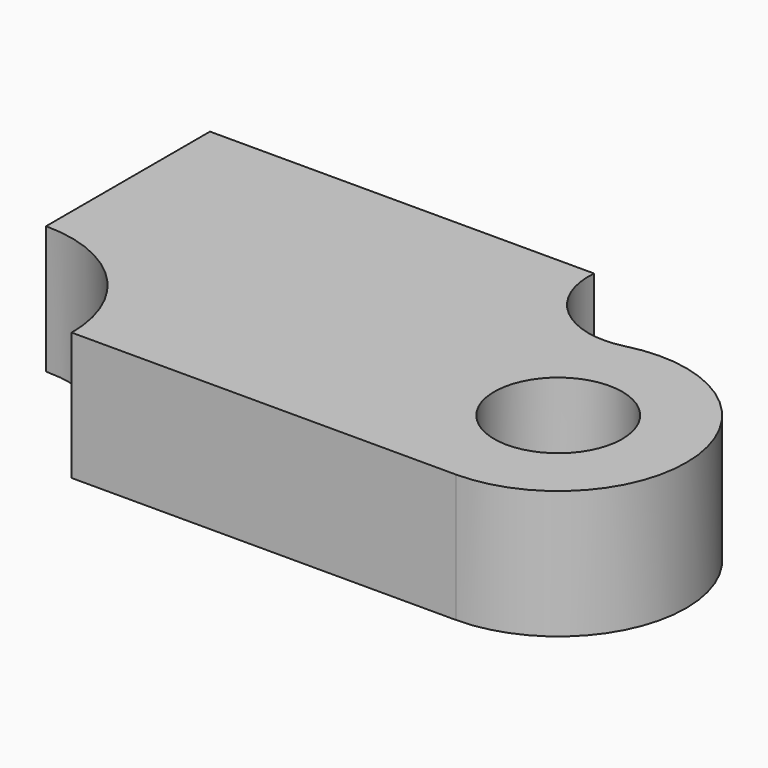
from build123d import *

# Parameters (mm, degrees)
F0_R     = 5
F1_DEPTH = 10


with BuildPart() as f1:
    # F0 (on Top) → F1 (new body)
    with BuildSketch(Plane.XY):
        with BuildLine():
            Line((-30, -10), (-10, -10))
            Line((-10, -10), (0, -10))
            ThreePointArc((0, -10), (9.919398, 1.2671), (-2.513773, 9.678892))
            ThreePointArc((-2.513773, 9.678892), (-7.89291, 10.901868), (-10, 16))
            Line((-10, 16), (-40, 16))
            Line((-40, 16), (-40, 0))
            ThreePointArc((-40, 0), (-32.928932, -2.928932), (-30, -10))
        make_face()
        Circle(F0_R, mode=Mode.SUBTRACT)
    extrude(amount=F1_DEPTH)


solid = f1.part
